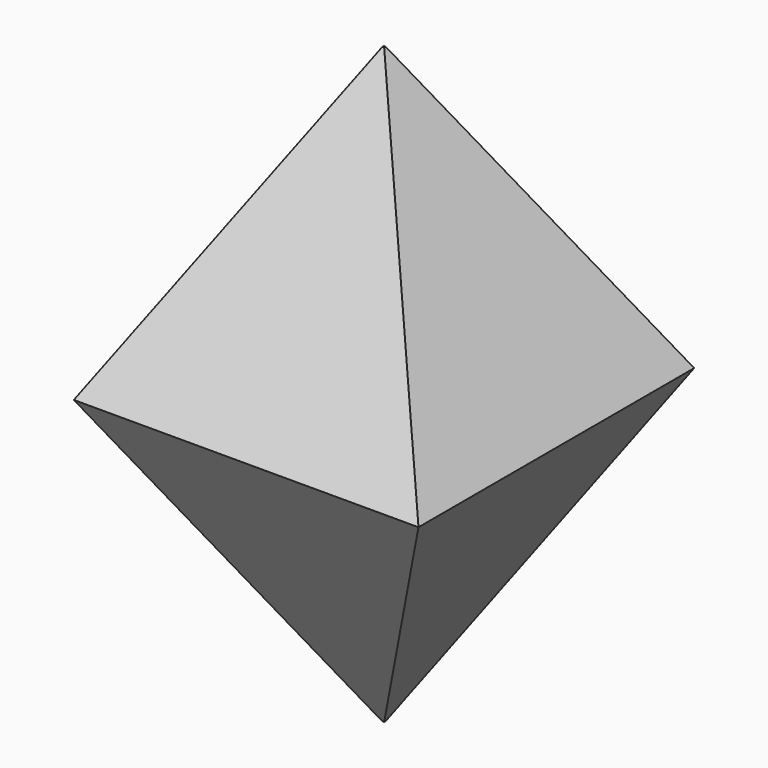
from build123d import *

# Parameters (mm, degrees)
F0_W          = 53.6921843886
F0_H          = 53.6921843886
F1_DEPTH      = 46.228
F1_TAPER      = 30
F1_DEPTH_BACK = 46.228
F1_TAPER_BACK = 30


with BuildPart() as f1:
    # F0 (on Top) → F1 (new body, two sides)
    with BuildSketch(Plane.XY) as f1_sk:
        with Locations((-14.9725442752, 12.4619603157)):
            Rectangle(F0_W, F0_H)
    extrude(amount=F1_DEPTH, taper=F1_TAPER)
    extrude(f1_sk.sketch, amount=-F1_DEPTH_BACK, taper=F1_TAPER_BACK)


solid = f1.part
